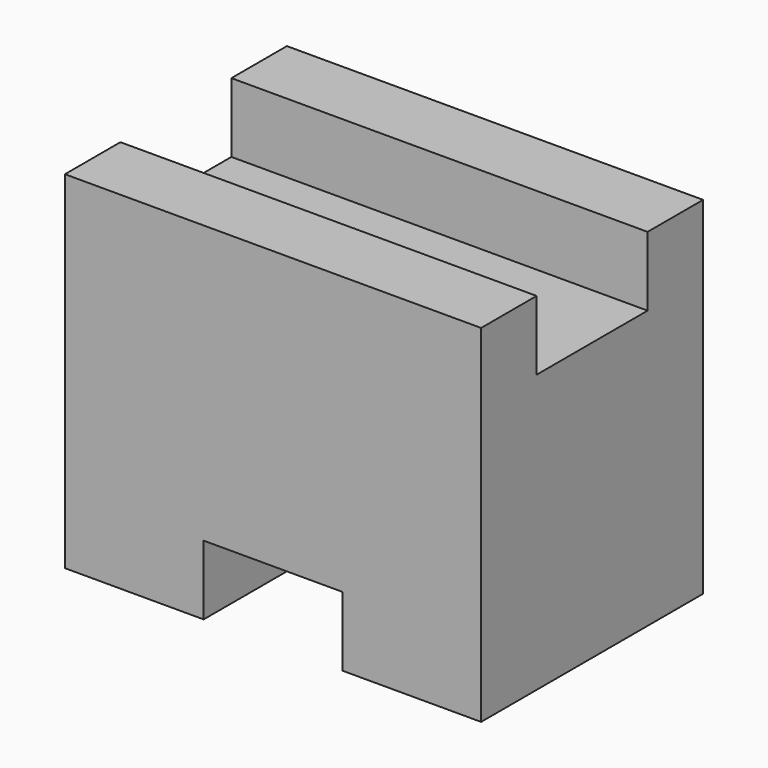
from build123d import *

# Parameters (mm, degrees)
F1_DEPTH = 25.4
F2_W     = 12.7
F2_H     = 6.35
F3_DEPTH = 25.4
F4_DEPTH = 25.4


with BuildPart() as f1:
    # F0 (on Front) → F1 (new body)
    with BuildSketch(Plane.XZ):
        Polygon((0, 31.75), (0, 0), (12.7, 0), (12.7, 6.35), (25.4, 6.35), (25.4, 0), (38.1, 0), (38.1, 31.75), align=None)
    extrude(amount=F1_DEPTH)

    # F2 (on face) → F3 (cut)
    with BuildSketch(Plane.YZ.offset(38.1)):
        with Locations((-12.7, 28.575)):
            Rectangle(F2_W, F2_H)
    extrude(amount=-F3_DEPTH, mode=Mode.SUBTRACT)

    # F4 (cut): a face of the model
    f4_faces = [f1.faces().sort_by_distance(p)[0] for p in [
        (12.7, -12.7, 28.575),
    ]]
    extrude(f4_faces, amount=-F4_DEPTH, mode=Mode.SUBTRACT)


solid = f1.part
